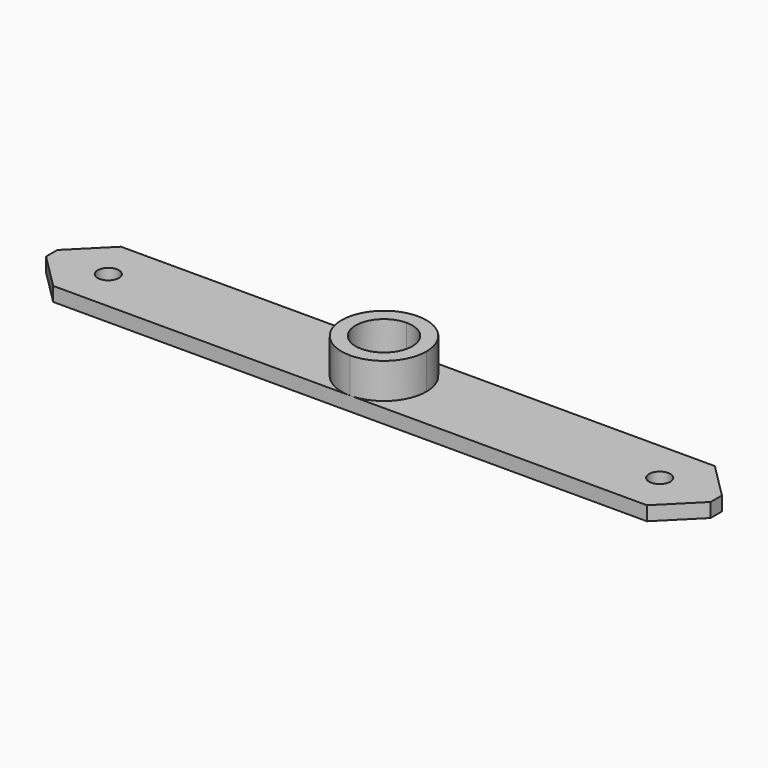
from build123d import *

# Parameters (mm, degrees)
F0_W     = 94
F0_H     = 12
F1_DEPTH = 2
F3_DEPTH = 5
F4_T     = -2
F5_SIZE  = 5
F6_R     = 1.5
F7_DEPTH = 25
F8_R     = 1.5
F9_DEPTH = 25


with BuildPart() as f1:
    # F0 (on Top) → F1 (new body)
    with BuildSketch(Plane.XY):
        with Locations((-47, -6)):
            Rectangle(F0_W, F0_H)
    extrude(amount=F1_DEPTH)

    # F2 (on face) → F3 (join)
    with BuildSketch(Plane.XY.offset(2)):
        with BuildLine():
            ThreePointArc((-47, -12), (-42.7573593129, -10.2426406871), (-41, -6))
            ThreePointArc((-41, -6), (-42.7573593129, -1.7573593129), (-47, 0))
            ThreePointArc((-47, 0), (-53, -6), (-47, -12))
        make_face()
    extrude(amount=F3_DEPTH)

    # F4
    f4_openings = [f1.faces().sort_by_distance(p)[0] for p in [
        (-47, -6, 7),
    ]]
    offset(amount=F4_T, openings=f4_openings, kind=Kind.INTERSECTION)

    # F5
    f5_edges = [f1.edges().sort_by_distance(p)[0] for p in [
        (-94, -12, 1),
        (-94, 0, 1),
        (0, 0, 1),
        (0, -12, 1),
    ]]
    chamfer(f5_edges, length=F5_SIZE)

    # F6 (on face) → F7 (cut)
    with BuildSketch(Plane.XY.offset(2)):
        with Locations((-47, -6)):
            Circle(F6_R)
    extrude(amount=-F7_DEPTH, mode=Mode.SUBTRACT)

    # F8 (on face) → F9 (cut)
    with BuildSketch(Plane.XY.offset(2)):
        with Locations((-8, -6)):
            Circle(F8_R)
        with Locations((-86, -6)):
            Circle(F8_R)
    extrude(amount=-F9_DEPTH, mode=Mode.SUBTRACT)


solid = f1.part
